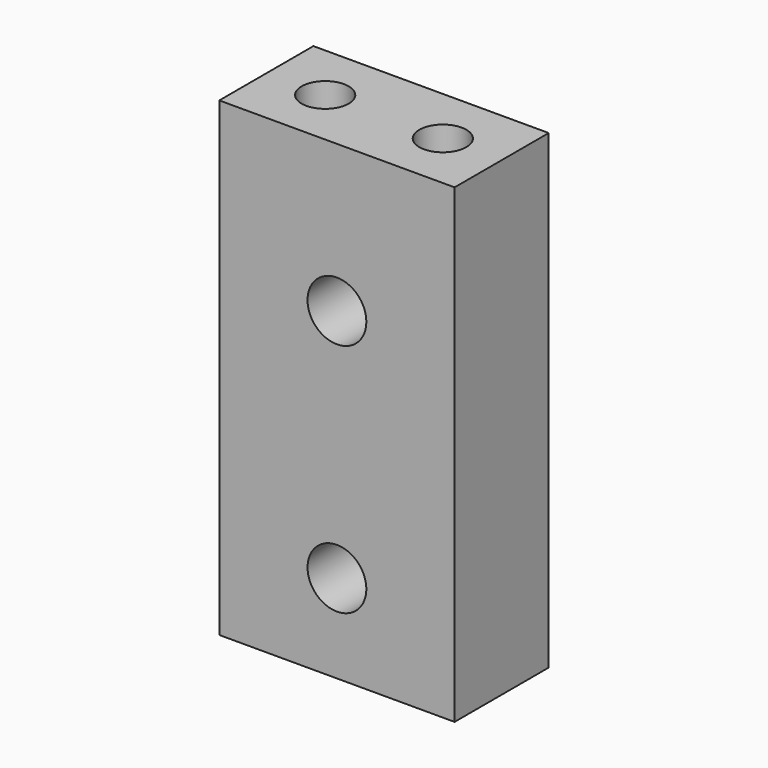
from build123d import *

# Parameters (mm, degrees)
F0_W     = 25.4
F0_H     = 50.8
F0_R     = 3.175
F1_DEPTH = 12.7
F2_R     = 2.54
F3_DEPTH = 25.4


with BuildPart() as f1:
    # F0 (on Front) → F1 (new body)
    with BuildSketch(Plane.XZ):
        Rectangle(F0_W, F0_H)
        with Locations((0, -15.875)):
            Circle(F0_R, mode=Mode.SUBTRACT)
        with Locations((0, 9.525)):
            Circle(F0_R, mode=Mode.SUBTRACT)
    extrude(amount=F1_DEPTH)

    # F2 (on face) → F3 (cut)
    with BuildSketch(Plane.XY.offset(25.4)):
        with Locations((-6.35, -6.35)):
            Circle(F2_R)
        with Locations((6.35, -6.35)):
            Circle(F2_R)
    extrude(amount=-F3_DEPTH, mode=Mode.SUBTRACT)


solid = f1.part
